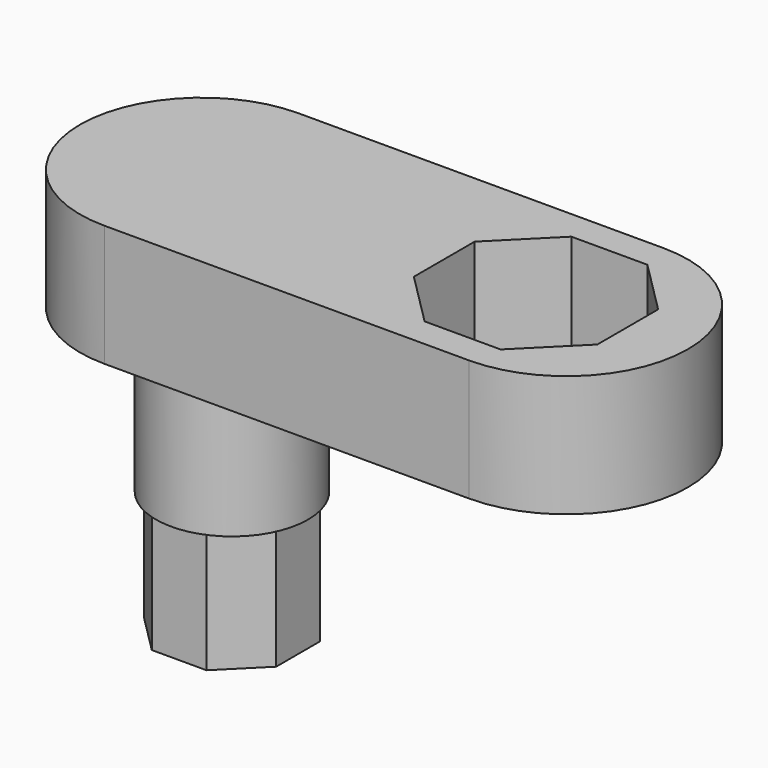
from build123d import *

# Parameters (mm, degrees)
PAD_DEPTH    = 40
POCKET_DEPTH = 100
SKETCH002_R  = 25
PAD001_DEPTH = 50
PAD002_DEPTH = 40


with BuildPart() as part:
    # Sketch → Pad (new body)
    with BuildSketch(Plane.XY):
        with BuildLine():
            Line((-60, 40), (60, 40))
            ThreePointArc((60, -40), (100, 0), (60, 40))
            Line((-60, -40), (60, -40))
            ThreePointArc((-60, 40), (-100, 0), (-60, -40))
        make_face()
    extrude(amount=PAD_DEPTH)

    # Sketch001 → Pocket (cut)
    with BuildSketch(Plane(origin=(0, 0, 0), x_dir=(1, 0, 0), z_dir=(0, 0, -1))):
        Polygon((62.5, -30.17767), (80.17767, -12.5), (80.17767, 12.5), (62.5, 30.17767), (37.5, 30.17767), (19.82233, 12.5), (19.82233, -12.5), (37.5, -30.17767), align=None)
    extrude(amount=-POCKET_DEPTH, mode=Mode.SUBTRACT)

    # Sketch002 → Pad001 (join)
    with BuildSketch(Plane(origin=(0, 0, 0), x_dir=(1, 0, 0), z_dir=(0, 0, -1))):
        with Locations((-50, 0)):
            Circle(SKETCH002_R)
    extrude(amount=PAD001_DEPTH)

    # Sketch003 → Pad002 (join)
    with BuildSketch(Plane(origin=(0, 0, -50), x_dir=(1, 0, 0), z_dir=(0, 0, -1))):
        Polygon((-41, -21.727922), (-28.272078, -9), (-28.272078, 9), (-41, 21.727922), (-59, 21.727922), (-71.727922, 9), (-71.727922, -9), (-59, -21.727922), align=None)
    extrude(amount=PAD002_DEPTH)


solid = part.part
